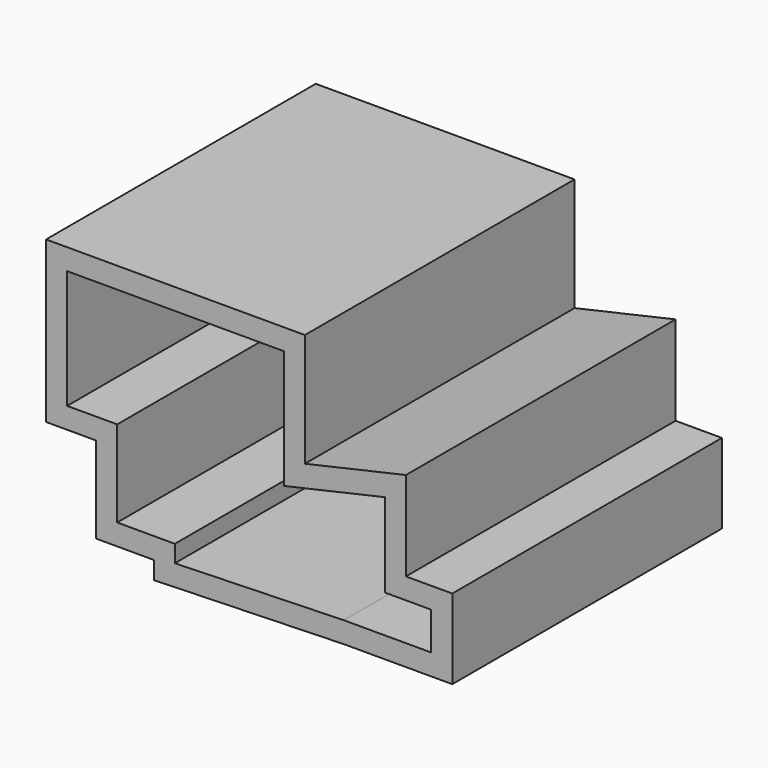
from build123d import *

# Parameters (mm, degrees)
F1_DEPTH = 2438.4


with BuildPart() as f1:
    # F0 (on Front) → F1 (new body)
    with BuildSketch(Plane.XZ):
        Polygon((-887.011511, 2127.3067), (-887.011511, 964.426909), (-524.931474, 964.426909), (-524.931474, 339.467082), (-107.847057, 339.467082), (-107.847057, 211.064862), (1269.137535, 250.24727), (2051.517725, 250.24727), (2051.517725, 827.787042), (1716.300845, 827.787042), (1716.300845, 1473.530769), (985.148055, 1307.670529), (985.148055, 2127.3067), align=None)
        Polygon((1266.969685, 402.64727), (44.552943, 367.863125), (44.552943, 491.867082), (-372.531474, 491.867082), (-372.531474, 1116.826909), (-734.611511, 1116.826909), (-734.611511, 1974.9067), (832.748055, 1974.9067), (832.748055, 1116.826909), (1563.900845, 1282.687149), (1563.900845, 675.387042), (1899.117725, 675.387042), (1899.117725, 402.64727), align=None, mode=Mode.SUBTRACT)
    extrude(amount=F1_DEPTH)


solid = f1.part
